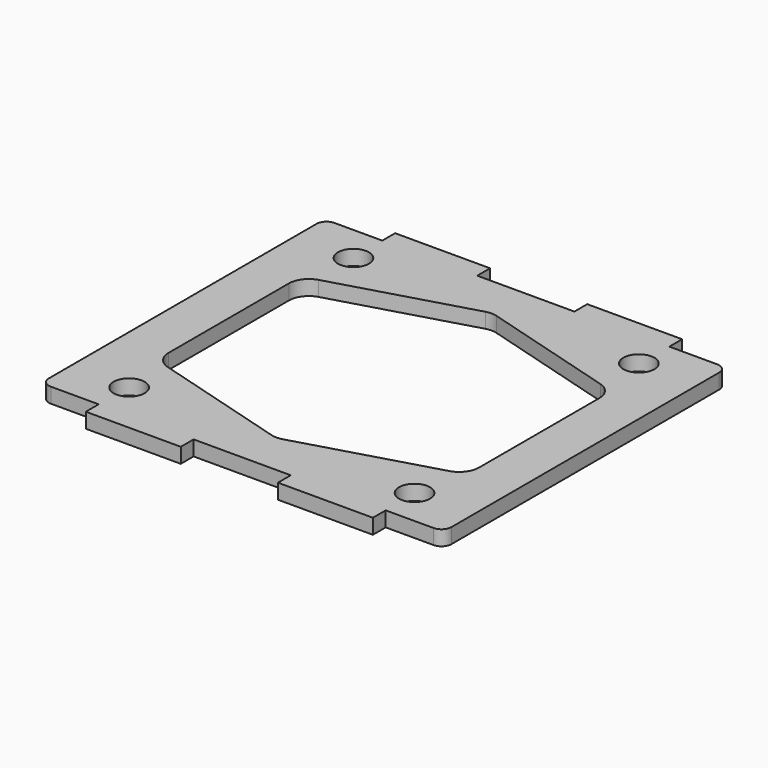
from build123d import *

# Parameters (mm, degrees)
F0_R     = 1.55
F1_DEPTH = 1.5
F2_R     = 2
F3_R     = 1


with BuildPart() as f1:
    # F0 (on Top) → F1 (new body)
    with BuildSketch(Plane.XY):
        Polygon((-14.33, 17.7), (-20.1, 17.7), (-20.1, -17.7), (-14.33, -17.7), (-14.33, -19.3), (-4.85, -19.3), (-4.85, -17.7), (0, -17.7), (4.85, -17.7), (4.85, -19.3), (14.33, -19.3), (14.33, -17.7), (20.1, -17.7), (20.1, 17.7), (14.33, 17.7), (14.33, 19.3), (4.85, 19.3), (4.85, 17.7), (0, 17.7), (-4.85, 17.7), (-4.85, 19.3), (-14.33, 19.3), align=None)
        with Locations((-14.25, -14)):
            Circle(F0_R, mode=Mode.SUBTRACT)
        with Locations((14.25, -14)):
            Circle(F0_R, mode=Mode.SUBTRACT)
        with Locations((-14.25, 14)):
            Circle(F0_R, mode=Mode.SUBTRACT)
        Polygon((-15.5, 9), (0, 13.5), (15.5, 9), (15.5, -9), (0, -13.5), (-15.5, -9), align=None, mode=Mode.SUBTRACT)
        with Locations((14.25, 14)):
            Circle(F0_R, mode=Mode.SUBTRACT)
    extrude(amount=F1_DEPTH)

    # F2
    f2_edges = [f1.edges().sort_by_distance(p)[0] for p in [
        (-15.5, -9, 0.75),
        (-15.5, 9, 0.75),
        (0, 13.5, 0.75),
        (15.5, 9, 0.75),
        (15.5, -9, 0.75),
        (0, -13.5, 0.75),
    ]]
    fillet(f2_edges, radius=F2_R)

    # F3
    f3_edges = [f1.edges().sort_by_distance(p)[0] for p in [
        (-20.1, 17.7, 0.75),
        (20.1, 17.7, 0.75),
        (20.1, -17.7, 0.75),
        (-20.1, -17.7, 0.75),
    ]]
    fillet(f3_edges, radius=F3_R)


solid = f1.part
